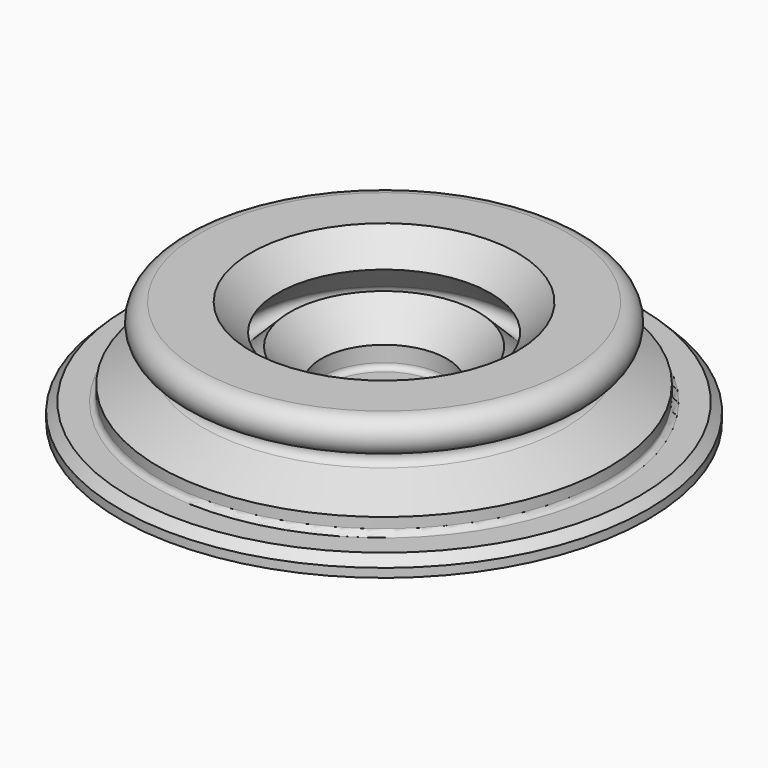
from build123d import *

# Parameters (mm, degrees)
F2_R = 3


with BuildPart() as f1:
    # F0 (on Front) → F1 (revolve)
    with BuildSketch(Plane.XZ):
        with BuildLine():
            Line((10, 3), (10, 0))
            Line((10, 0), (150, 0))
            Line((150, 0), (150, 5))
            Line((150, 5), (145, 10))
            Line((145, 10), (127.75, 10))
            Line((127.75, 10), (127.75, 18.874611))
            Line((127.75, 18.874611), (102.886909, 30.468461))
            ThreePointArc((102.886909, 30.468461), (100.11852, 36.082198), (105, 40))
            ThreePointArc((105, 40), (115, 50), (105, 60))
            Line((105, 60), (75.65, 60))
            Line((75.65, 60), (60.398737, 44.748737))
            Line((60.398737, 44.748737), (78.076407, 27.071068))
            ThreePointArc((78.076407, 27.071068), (78.076407, 20), (71.005339, 20))
            Line((71.005339, 20), (53.32767, 37.67767))
            Line((53.32767, 37.67767), (35.65, 20))
            Line((35.65, 20), (35.65, 8))
            Line((35.65, 8), (15, 8))
            Line((15, 8), (10, 3))
        make_face()
    revolve(axis=Axis((0, 0, 25.041718), (0, 0, -1)))

    # F2
    f2_edges = [f1.edges().sort_by_distance(p)[0] for p in [
        (-35.65, 0, 8),
        (-127.75, 0, 10),
    ]]
    fillet(f2_edges, radius=F2_R)


solid = f1.part
